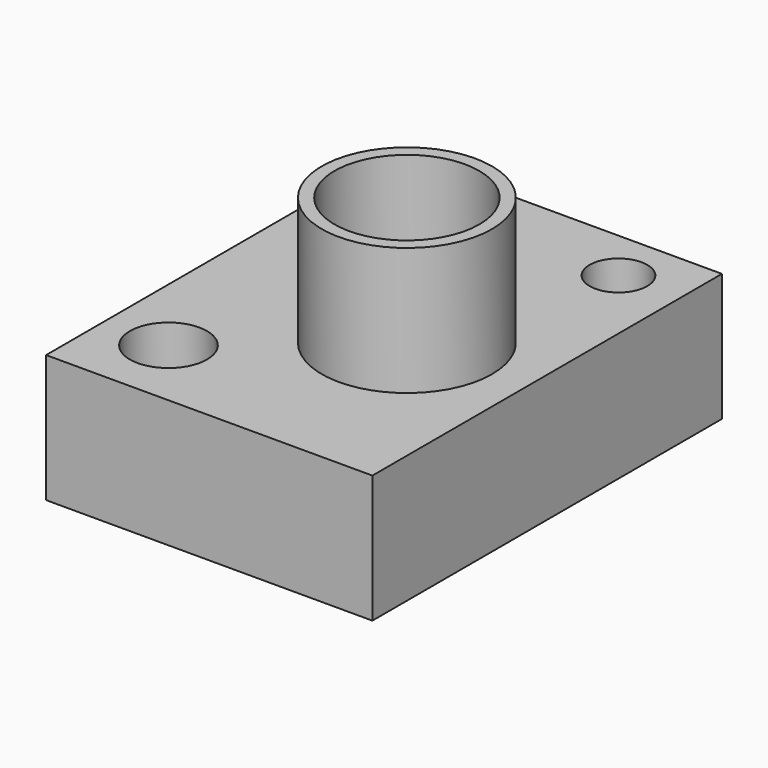
from build123d import *

# Parameters (mm, degrees)
F0_W      = 32.445639
F0_H      = 43.444172
F1_DEPTH  = 12.7
F2_R      = 8.464038
F3_DEPTH  = 12.7
F4_R      = 7.201961
F5_DEPTH  = 25.4
F8_R      = 3.287286
F9_DEPTH  = 25.4
F10_R     = 2.865858
F11_DEPTH = 25.4
F12_R     = 3.833987
F13_DEPTH = 25.4


with BuildPart() as f1:
    # F0 (on Top) → F1 (new body)
    with BuildSketch(Plane.XY):
        with Locations((-49.768306, 38.403161)):
            Rectangle(F0_W, F0_H)
    extrude(amount=F1_DEPTH)

    # F2 (on face) → F3 (join)
    with BuildSketch(Plane.XY.offset(12.7)):
        with Locations((-45.408141, 35.799652)):
            Circle(F2_R)
    extrude(amount=F3_DEPTH)

    # F4 (on face) → F5 (cut)
    with BuildSketch(Plane.XY.offset(25.4)):
        with Locations((-45.408141, 35.799652)):
            Circle(F4_R)
    extrude(amount=-F5_DEPTH, mode=Mode.SUBTRACT)

    # F8 (on face) → F9 (cut)
    with BuildSketch(Plane.XY.offset(12.7)):
        with Locations((-58.590725, 52.473925)):
            Circle(F8_R)
    extrude(amount=-F9_DEPTH, mode=Mode.SUBTRACT)

    # F10 (on face) → F11 (cut)
    with BuildSketch(Plane.XY.offset(12.7)):
        with Locations((-39.644916, 54.891884)):
            Circle(F10_R)
    extrude(amount=-F11_DEPTH, mode=Mode.SUBTRACT)

    # F12 (on face) → F13 (cut)
    with BuildSketch(Plane.XY.offset(12.7)):
        with Locations((-59.598204, 23.901373)):
            Circle(F12_R)
    extrude(amount=-F13_DEPTH, mode=Mode.SUBTRACT)


solid = f1.part
